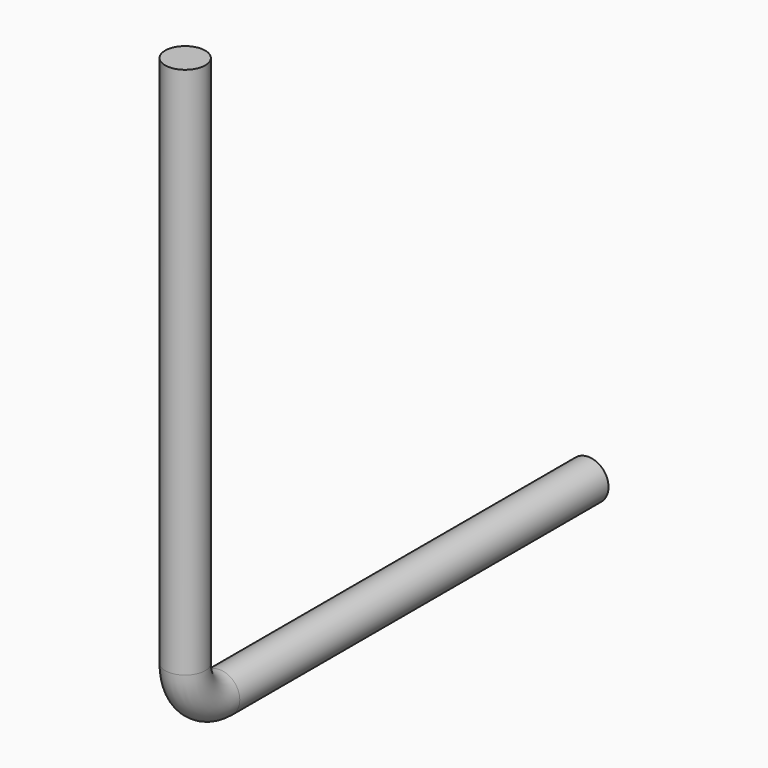
from build123d import *

# Parameters (mm, degrees)
F2_R = 27.85


with BuildPart() as f3:
    # F3: sweep along a path in F0
    with BuildLine(Plane.YZ) as f3_path:
        Line((0, 800), (0, 60))
        ThreePointArc((0, 60), (17.573593, 17.573593), (60, 0))
        Line((60, 0), (700, 0))
    # F2 (on plane+point) → F3 (sweep)
    with BuildSketch(Plane.XY.offset(800)):
        Circle(F2_R)
    sweep(path=f3_path.line)


solid = f3.part
